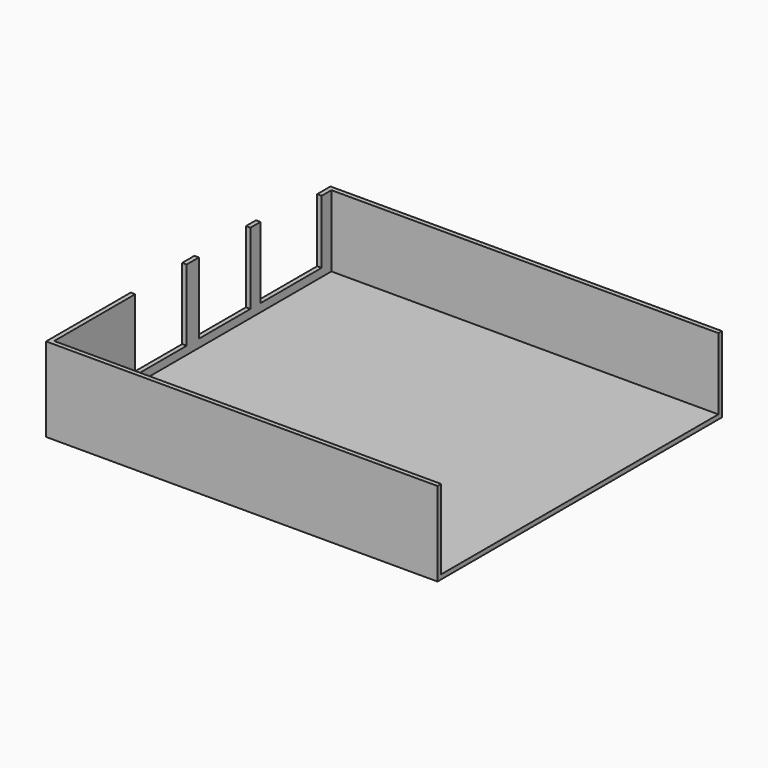
from build123d import *

# Parameters (mm, degrees)
F1_DEPTH = 1
F3_DEPTH = 86


with BuildPart() as f1:
    # F0 (on Right) → F1 (new body)
    with BuildSketch(Plane.YZ):
        Polygon((-21.022, -3.3), (57.998, -3.3), (57.998, 13.598), (54.298, 13.598), (54.298, -0.5), (37.298, -0.5), (37.298, 15.398), (34.498, 15.398), (34.498, -0.5), (20.198, -0.5), (20.198, 15.398), (16.798, 15.398), (16.798, -0.5), (2.498, -0.5), (2.498, 15.398), (-21.022, 15.398), align=None)
    extrude(amount=F1_DEPTH)

    # F2 (on face) → F3 (join)
    with BuildSketch(Plane.YZ.offset(1)):
        Polygon((-20.022, 15.398), (-21.022, 15.398), (-21.022, -3.3), (57.998, -3.3), (57.998, 13.598), (56.998, 13.598), (56.998, -2.3), (-20.022, -2.3), align=None)
    extrude(amount=F3_DEPTH)


solid = f1.part
